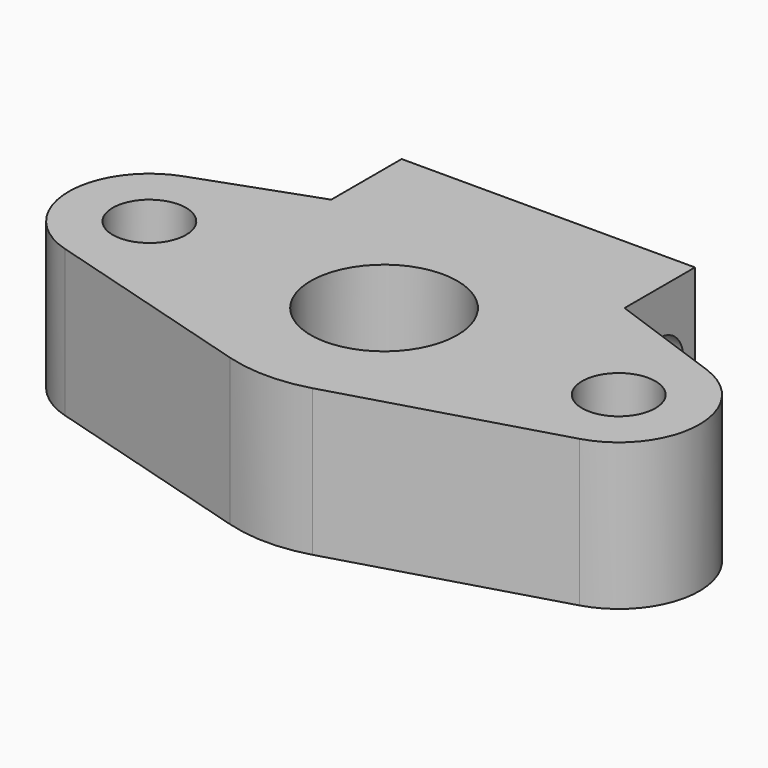
from build123d import *

# Parameters (mm, degrees)
F0_R     = 2.5
F0_R_2   = 5
F1_DEPTH = 10
F2_R     = 2
F3_DEPTH = 25


with BuildPart() as f1:
    # F0 (on Top) → F1 (new body)
    with BuildSketch(Plane.XY):
        with BuildLine():
            ThreePointArc((-17.859724, 5.176043), (-21.497539, -0.16452), (-17.546875, -5.27799))
            Line((-17.546875, -5.27799), (-2.8125, -9.596345))
            ThreePointArc((-2.8125, -9.596345), (0, -10), (2.8125, -9.596345))
            Line((2.8125, -9.596345), (17.546875, -5.27799))
            ThreePointArc((17.546875, -5.27799), (21.497539, -0.16452), (17.859724, 5.176043))
            Line((17.859724, 5.176043), (10, 8))
            Line((10, 8), (10, 14))
            Line((10, 14), (0, 14))
            Line((0, 14), (-10, 14))
            Line((-10, 14), (-10, 8))
            Line((-10, 8), (-17.859724, 5.176043))
        make_face()
        with Locations((-16, 0)):
            Circle(F0_R, mode=Mode.SUBTRACT)
        Circle(F0_R_2, mode=Mode.SUBTRACT)
        with Locations((16, 0)):
            Circle(F0_R, mode=Mode.SUBTRACT)
    extrude(amount=F1_DEPTH)

    # F2 (on face) → F3 (cut)
    with BuildSketch(Plane.YZ.offset(10)):
        with Locations((11, 5)):
            Circle(F2_R)
    extrude(amount=-F3_DEPTH, mode=Mode.SUBTRACT)


solid = f1.part
